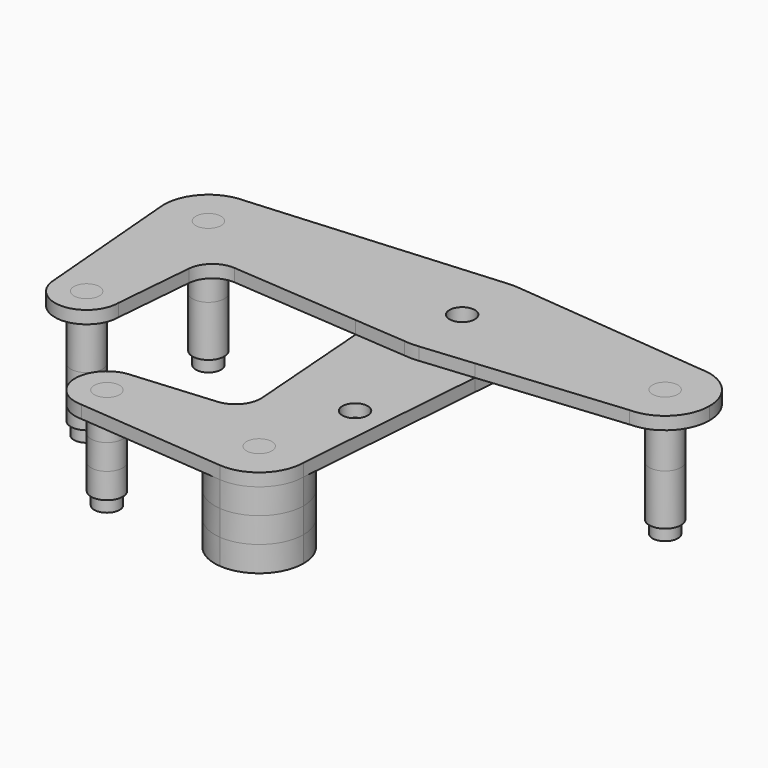
from build123d import *

# Parameters (mm, degrees)
F0_R     = 3.175
F1_DEPTH = 3.175
F2_DEPTH = 3.175
F3_R     = 3.96875
F3_R_2   = 3.175
F6_DEPTH = 15.875
F4_R     = 3.96875
F4_R_2   = 3.175


with BuildPart() as f1:
    # F0 (on Top) → F1 (new body)
    with BuildSketch(Plane.XY):
        with BuildLine():
            ThreePointArc((-15.8296902309, -1.1985542096), (-12.2373111058, 10.1125586228), (-1.8057450656, 15.7719659446))
            Line((-1.8057450656, 15.7719659446), (-63.5, 11.1125))
            ThreePointArc((-63.5, 11.1125), (-55.6422758941, 7.8577241059), (-52.3875, 0))
            ThreePointArc((-52.3875, 0), (-62.9209329837, -11.0974022925), (-74.552150194, -1.156560564))
            Line((-74.552150194, -1.156560564), (-71.4375, -38.1))
            ThreePointArc((-71.4375, -38.1), (-63.5, -30.1625), (-55.5625, -38.1))
            Line((-55.5625, -38.1), (-53.8806702431, -18.1515075871))
            ThreePointArc((-53.8806702431, -18.1515075871), (-51.6712870007, -13.8514266379), (-47.0748958173, -12.3530079477))
            Line((-47.0748958173, -12.3530079477), (-14.8005658302, -14.7905305602))
            Line((-14.8005658302, -14.7905305602), (-15.8296902309, -1.1985542096))
        make_face()
        with BuildLine():
            ThreePointArc((-52.3875, 0), (-55.6422758941, 7.8577241059), (-63.5, 11.1125))
            ThreePointArc((-63.5, 11.1125), (-71.7565106285, 7.4375862006), (-74.552150194, -1.156560564))
            ThreePointArc((-74.552150194, -1.156560564), (-62.9209329837, -11.0974022925), (-52.3875, 0))
        make_face()
        with Locations((-63.5, 0)):
            Circle(F0_R, mode=Mode.SUBTRACT)
        with BuildLine():
            ThreePointArc((-55.5625, -38.1), (-63.5, -30.1625), (-71.4375, -38.1))
            ThreePointArc((-71.4375, -38.1), (-63.5, -46.0375), (-55.5625, -38.1))
        make_face()
        with Locations((-63.5, -38.1)):
            Circle(F0_R, mode=Mode.SUBTRACT)
        with BuildLine():
            ThreePointArc((15.8296902309, -1.1985542096), (15.8636685136, -0.599705171), (15.875, 0))
            ThreePointArc((15.875, 0), (11.8465570508, 10.5676256104), (1.8057450656, 15.7719659446))
            ThreePointArc((1.8057450656, 15.7719659446), (0, 15.875), (-1.8057450656, 15.7719659446))
            ThreePointArc((-1.8057450656, 15.7719659446), (-12.2373111058, 10.1125586228), (-15.8296902309, -1.1985542096))
            ThreePointArc((-15.8296902309, -1.1985542096), (-11.4388909831, -11.0076063736), (-1.8057450656, -15.7719659446))
            ThreePointArc((-1.8057450656, -15.7719659446), (0, -15.875), (1.8057450656, -15.7719659446))
            ThreePointArc((1.8057450656, -15.7719659446), (11.4388909831, -11.0076063736), (15.8296902309, -1.1985542096))
        make_face()
        Circle(F0_R, mode=Mode.SUBTRACT)
        with BuildLine():
            ThreePointArc((-1.8057450656, -15.7719659446), (-11.4388909831, -11.0076063736), (-15.8296902309, -1.1985542096))
            Line((-15.8296902309, -1.1985542096), (-14.8005658302, -14.7905305602))
            Line((-14.8005658302, -14.7905305602), (-1.8057450656, -15.7719659446))
        make_face()
        with BuildLine():
            Line((14.8200304566, -14.5334549916), (15.8296902309, -1.1985542096))
            ThreePointArc((15.8296902309, -1.1985542096), (11.4388909831, -11.0076063736), (1.8057450656, -15.7719659446))
            Line((1.8057450656, -15.7719659446), (14.8200304566, -14.5334549916))
        make_face()
        with BuildLine():
            ThreePointArc((1.8057450656, 15.7719659446), (11.8465570508, 10.5676256104), (15.875, 0))
            ThreePointArc((15.875, 0), (15.8636685136, -0.599705171), (15.8296902309, -1.1985542096))
            Line((15.8296902309, -1.1985542096), (14.8200304566, -14.5334549916))
            Line((14.8200304566, -14.5334549916), (50.7679452798, -11.112453768))
            ThreePointArc((50.7679452798, -11.112453768), (39.6875, 0), (50.7679452798, 11.112453768))
            Line((50.7679452798, 11.112453768), (1.8057450656, 15.7719659446))
        make_face()
        with BuildLine():
            ThreePointArc((61.9125, 0), (58.6463828664, 7.869049), (50.7679452798, 11.112453768))
            ThreePointArc((50.7679452798, 11.112453768), (39.6875, 0), (50.7679452798, -11.112453768))
            ThreePointArc((50.7679452798, -11.112453768), (58.6463828664, -7.869049), (61.9125, 0))
        make_face()
        with Locations((50.8, 0)):
            Circle(F0_R, mode=Mode.SUBTRACT)
    extrude(amount=F1_DEPTH)


with BuildPart() as f2:
    # F0 (on Top) → F2 (new body)
    with BuildSketch(Plane.XY):
        with BuildLine():
            Line((14.8200304566, -14.5334549916), (15.8296902309, -1.1985542096))
            ThreePointArc((15.8296902309, -1.1985542096), (11.4388909831, -11.0076063736), (1.8057450656, -15.7719659446))
            Line((1.8057450656, -15.7719659446), (14.8200304566, -14.5334549916))
        make_face()
        with BuildLine():
            ThreePointArc((-1.8057450656, -15.7719659446), (-11.4388909831, -11.0076063736), (-15.8296902309, -1.1985542096))
            Line((-15.8296902309, -1.1985542096), (-14.8005658302, -14.7905305602))
            Line((-14.8005658302, -14.7905305602), (-1.8057450656, -15.7719659446))
        make_face()
        with BuildLine():
            ThreePointArc((15.8296902309, -1.1985542096), (15.8636685136, -0.599705171), (15.875, 0))
            ThreePointArc((15.875, 0), (11.8465570508, 10.5676256104), (1.8057450656, 15.7719659446))
            ThreePointArc((1.8057450656, 15.7719659446), (0, 15.875), (-1.8057450656, 15.7719659446))
            ThreePointArc((-1.8057450656, 15.7719659446), (-12.2373111058, 10.1125586228), (-15.8296902309, -1.1985542096))
            ThreePointArc((-15.8296902309, -1.1985542096), (-11.4388909831, -11.0076063736), (-1.8057450656, -15.7719659446))
            ThreePointArc((-1.8057450656, -15.7719659446), (0, -15.875), (1.8057450656, -15.7719659446))
            ThreePointArc((1.8057450656, -15.7719659446), (11.4388909831, -11.0076063736), (15.8296902309, -1.1985542096))
        make_face()
        Circle(F0_R, mode=Mode.SUBTRACT)
        with BuildLine():
            Line((14.8200304566, -14.5334549916), (1.8057450656, -15.7719659446))
            ThreePointArc((1.8057450656, -15.7719659446), (0, -15.875), (-1.8057450656, -15.7719659446))
            Line((-1.8057450656, -15.7719659446), (-14.8005658302, -14.7905305602))
            Line((-14.8005658302, -14.7905305602), (-12.3562987385, -47.0727507499))
            ThreePointArc((-12.3562987385, -47.0727507499), (-13.8541122178, -51.6697370845), (-18.1543247442, -53.8796920177))
            Line((-18.1543247442, -53.8796920177), (-38.1, -55.5625))
            ThreePointArc((-38.1, -55.5625), (-32.4873399243, -57.8873399243), (-30.1625, -63.5))
            ThreePointArc((-30.1625, -63.5), (-32.4873399243, -69.1126600757), (-38.1, -71.4375))
            Line((-38.1, -71.4375), (-0.9342376517, -74.5731592719))
            ThreePointArc((-0.9342376517, -74.5731592719), (-7.5201708872, -55.3186378837), (11.1125, -63.5))
            Line((11.1125, -63.5), (14.8200304566, -14.5334549916))
        make_face()
        with Locations((5.2543892525, -40.0771796703)):
            Circle(F0_R, mode=Mode.SUBTRACT)
        with BuildLine():
            ThreePointArc((-0.9342376517, -74.5731592719), (7.5201708872, -71.6813621163), (11.1125, -63.5))
            ThreePointArc((11.1125, -63.5), (-7.5201708872, -55.3186378837), (-0.9342376517, -74.5731592719))
        make_face()
        with Locations((0, -63.5)):
            Circle(F0_R, mode=Mode.SUBTRACT)
        with BuildLine():
            ThreePointArc((-38.1, -55.5625), (-46.0375, -63.5), (-38.1, -71.4375))
            ThreePointArc((-38.1, -71.4375), (-32.4873399243, -69.1126600757), (-30.1625, -63.5))
            ThreePointArc((-30.1625, -63.5), (-32.4873399243, -57.8873399243), (-38.1, -55.5625))
        make_face()
        with Locations((-38.1, -63.5)):
            Circle(F0_R, mode=Mode.SUBTRACT)
    extrude(amount=-F2_DEPTH)


with BuildPart() as f6:
    # F3 (on face) → F6 (new body, through all)
    with BuildSketch(Plane.XY.offset(3.175)):
        with Locations((-63.5, 0)):
            Circle(F3_R)
        with Locations((-63.5, 0)):
            Circle(F3_R_2, mode=Mode.SUBTRACT)
        with Locations((-63.5, 0)):
            Circle(F3_R_2)
    extrude(amount=-F6_DEPTH)

    # F7: cut F1, F2
    add(f1.part, mode=Mode.SUBTRACT)
    add(f2.part, mode=Mode.SUBTRACT)



with BuildPart() as f6b:
    # F3 (on face) → F6, piece 2 (new body, through all)
    with BuildSketch(Plane.XY.offset(3.175)):
        with Locations((-63.5, -38.1)):
            Circle(F3_R)
        with Locations((-63.5, -38.1)):
            Circle(F3_R_2, mode=Mode.SUBTRACT)
        with Locations((-63.5, -38.1)):
            Circle(F3_R_2)
    extrude(amount=-F6_DEPTH)

    # F7: cut F1, F2
    add(f1.part, mode=Mode.SUBTRACT)
    add(f2.part, mode=Mode.SUBTRACT)


with BuildPart() as f6c:
    # F3 (on face) → F6, piece 3 (new body, through all)
    with BuildSketch(Plane.XY.offset(3.175)):
        with Locations((50.8, 0)):
            Circle(F3_R)
        with Locations((50.8, 0)):
            Circle(F3_R_2, mode=Mode.SUBTRACT)
        with Locations((50.8, 0)):
            Circle(F3_R_2)
    extrude(amount=-F6_DEPTH)

    # F7: cut F1, F2
    add(f1.part, mode=Mode.SUBTRACT)
    add(f2.part, mode=Mode.SUBTRACT)


with BuildPart() as f6d:
    # F4 (on face) → F6, piece 4 (new body, through all)
    with BuildSketch(Plane.XY):
        with Locations((-38.1, -63.5)):
            Circle(F4_R)
        with Locations((-38.1, -63.5)):
            Circle(F4_R_2, mode=Mode.SUBTRACT)
    extrude(amount=-F6_DEPTH)

    # F7: cut F1, F2
    add(f1.part, mode=Mode.SUBTRACT)
    add(f2.part, mode=Mode.SUBTRACT)


with BuildPart() as f6e:
    # F0 (on Top) → F6, piece 5 (new body, through all)
    with BuildSketch(Plane.XY):
        with BuildLine():
            ThreePointArc((-0.9342376517, -74.5731592719), (7.5201708872, -71.6813621163), (11.1125, -63.5))
            ThreePointArc((11.1125, -63.5), (-7.5201708872, -55.3186378837), (-0.9342376517, -74.5731592719))
        make_face()
        with Locations((0, -63.5)):
            Circle(F0_R, mode=Mode.SUBTRACT)
        with Locations((0, -63.5)):
            Circle(F0_R)
    extrude(amount=-F6_DEPTH)

    # F7: cut F1, F2
    add(f1.part, mode=Mode.SUBTRACT)
    add(f2.part, mode=Mode.SUBTRACT)


with BuildPart() as f6f:
    # F0 (on Top) → F6, piece 6 (new body, through all)
    with BuildSketch(Plane.XY):
        with Locations((-38.1, -63.5)):
            Circle(F0_R)
    extrude(amount=-F6_DEPTH)

    # F7: cut F1, F2
    add(f1.part, mode=Mode.SUBTRACT)
    add(f2.part, mode=Mode.SUBTRACT)


with BuildPart() as f6_1:
    add(f6.part)

    add(f6b.part)  # F8 merges F6b

    add(f6c.part)  # F8 merges F6c

    add(f6d.part)  # F8 merges F6d

    add(f6e.part)  # F8 merges F6e

    add(f6f.part)  # F8 merges F6f
    # F8: F6b, F6, F6d, F6f, F6e, F6c across plane
    add(f6b.part.mirror(Plane.XY.offset(-12.7)))
    add(f6.part.mirror(Plane.XY.offset(-12.7)))
    add(f6d.part.mirror(Plane.XY.offset(-12.7)))
    add(f6f.part.mirror(Plane.XY.offset(-12.7)))
    add(f6e.part.mirror(Plane.XY.offset(-12.7)))
    add(f6c.part.mirror(Plane.XY.offset(-12.7)))


solid = Compound([f1.part, f2.part, f6_1.part])
